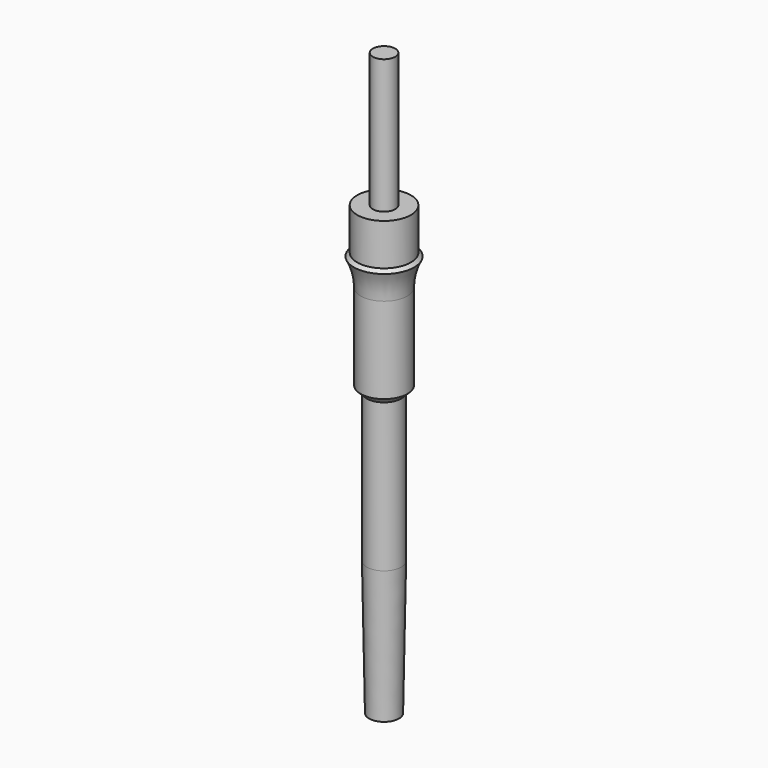
from build123d import *


with BuildPart() as f1:
    # F0 (on Front) → F1 (revolve)
    with BuildSketch(Plane.XZ):
        with BuildLine():
            Line((0, 45), (0, -150))
            Line((0, -150), (5, -150))
            Line((5, -150), (5.795, -105))
            Line((5.795, -105), (5.795, -55.255))
            Line((5.795, -55.255), (7.85, -53.2))
            Line((7.85, -53.2), (7.85, -24.316154))
            ThreePointArc((7.85, -24.316154), (8.420641, -19.572738), (10.1, -15.1))
            Line((10.1, -15.1), (9, -14))
            Line((9, -14), (9, 0))
            Line((9, 0), (3.75, 0))
            Line((3.75, 0), (3.75, 45))
            Line((3.75, 45), (0, 45))
        make_face()
    revolve(axis=Axis((0, 0, -52.5), (0, 0, -1)))


solid = f1.part
